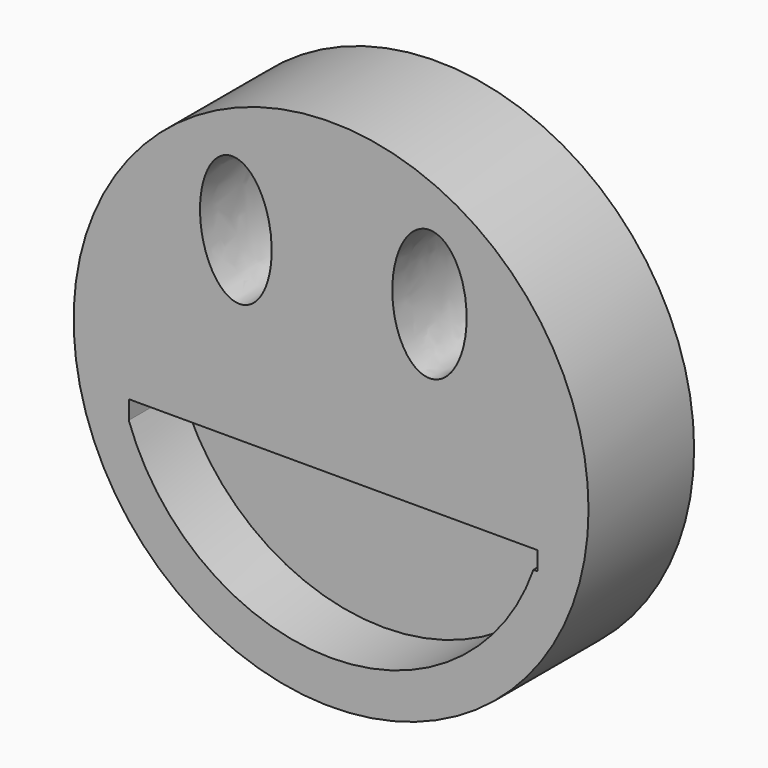
from build123d import *

# Parameters (mm, degrees)
F0_R     = 49.5487095178
F1_DEPTH = 25.4
F2_DEPTH = 12.7
F3_DEPTH = 12.7


with BuildPart() as f1:
    # F0 (on Front) → F1 (new body)
    with BuildSketch(Plane.XZ):
        Circle(F0_R)
        with BuildLine():
            Line((39.7017709911, -13.6615851751), (38.9369094103, -13.6615851751))
            ThreePointArc((38.9369094103, -13.6615851751), (0, -41.2640500184), (-38.9369094103, -13.6615851751))
            Line((-38.9369094103, -13.6615851751), (-38.9369094103, -10.0709088147))
            Line((-38.9369094103, -10.0709088147), (39.7017709911, -10.0709088147))
            Line((39.7017709911, -10.0709088147), (39.7017709911, -13.6615851751))
        make_face(mode=Mode.SUBTRACT)
        with BuildLine():
            add(Edge.make_bspline(
                [(-17.3281822354, 13.0042480305), (-5.5105900176, 13.9661418094), (-12.918637589, 31.904632496), (-20.3266851604, 49.8431231827), (-24.7362298067, 30.9427387171), (-29.1457744531, 12.0423542516), (-17.3281822354, 13.0042480305)],
                knots=[0, 0, 0, 2.0943951024, 2.0943951024, 4.1887902048, 4.1887902048, 6.2831853072, 6.2831853072, 6.2831853072], degree=2, weights=[1, 0.5, 1, 0.5, 1, 0.5, 1]))
        make_face(mode=Mode.SUBTRACT)
        with BuildLine():
            add(Edge.make_bspline(
                [(18.9395453781, 37.4207124114), (6.5418776512, 37.4207124114), (12.7407115146, 18.5729134828), (18.9395453781, -0.2748854458), (25.1383792415, 18.5729134828), (31.337213105, 37.4207124114), (18.9395453781, 37.4207124114)],
                knots=[0, 0, 0, 2.0943951024, 2.0943951024, 4.1887902048, 4.1887902048, 6.2831853072, 6.2831853072, 6.2831853072], degree=2, weights=[1, 0.5, 1, 0.5, 1, 0.5, 1]))
        make_face(mode=Mode.SUBTRACT)
    extrude(amount=F1_DEPTH)

    # F0 (on Front) → F2 (join)
    with BuildSketch(Plane.XZ):
        with BuildLine():
            ThreePointArc((-38.9369094103, -13.6615851751), (0, -41.2640500184), (38.9369094103, -13.6615851751))
            Line((38.9369094103, -13.6615851751), (-38.9369094103, -13.6615851751))
        make_face()
    extrude(amount=F2_DEPTH)

    # F0 (on Front) → F3 (join)
    with BuildSketch(Plane.XZ):
        with BuildLine():
            Line((-38.9369094103, -13.6615851751), (39.2926037312, -12.6021075994))
            ThreePointArc((39.2926037312, -12.6021075994), (39.1183435842, -13.1330506414), (38.9369094103, -13.6615851751))
            Line((38.9369094103, -13.6615851751), (39.7017709911, -13.6615851751))
            Line((39.7017709911, -13.6615851751), (39.7017709911, -10.0709088147))
            Line((39.7017709911, -10.0709088147), (-38.9369094103, -10.0709088147))
            Line((-38.9369094103, -10.0709088147), (-38.9369094103, -13.6615851751))
        make_face()
    extrude(amount=F3_DEPTH)


solid = f1.part
